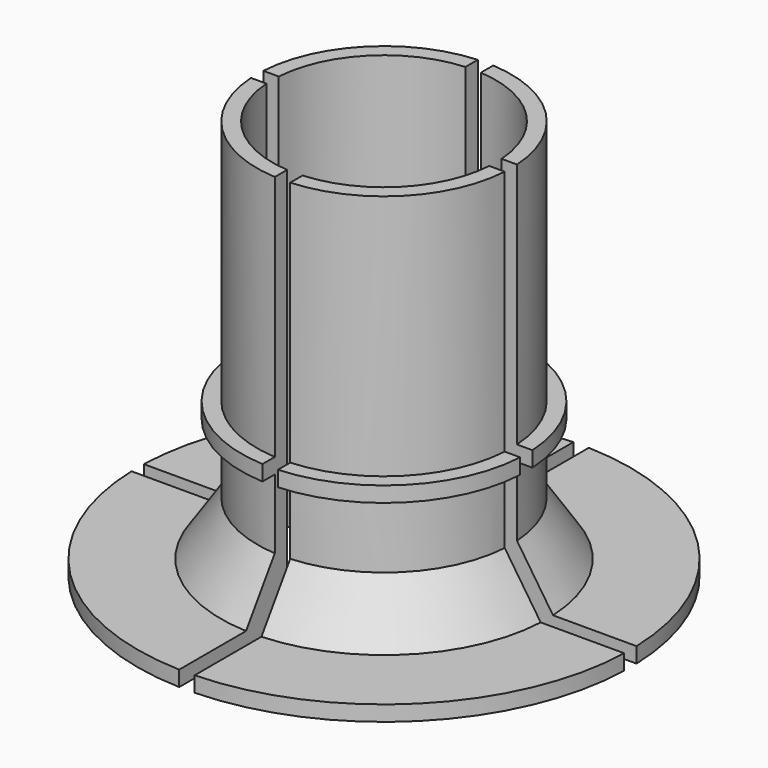
from build123d import *

# Parameters (mm, degrees)
EXTRUDE008_DEPTH = 26
EXTRUDE009_DEPTH = 1
EXTRUDE011_DEPTH = 1
BOX003_W         = 18
BOX003_H         = 17
BOX003_DEPTH     = 26
ARRAY_COUNT      = 4


with BuildPart() as extrude008:
    # Sketch010 → Extrude008 (new body)
    with BuildSketch(Plane.XY.offset(10)):
        with BuildLine():
            ThreePointArc((7.25, 0), (5.126524, 5.126524), (0, 7.25))
            Line((0, 8.25), (0, 7.25))
            ThreePointArc((8.25, 0), (5.833631, 5.833631), (0, 8.25))
            Line((7.25, 0), (8.25, 0))
        make_face()
    extrude(amount=EXTRUDE008_DEPTH)


with BuildPart() as extrude009:
    # Sketch011 → Extrude009 (new body)
    with BuildSketch(Plane.XY.offset(10)):
        with BuildLine():
            ThreePointArc((7.25, 0), (5.126524, 5.126524), (0, 7.25))
            Line((0, 16), (0, 7.25))
            ThreePointArc((16, 0), (11.313708, 11.313708), (0, 16))
            Line((7.25, 0), (16, 0))
        make_face()
    extrude(amount=EXTRUDE009_DEPTH)


with BuildPart() as extrude011:
    # Sketch013 → Extrude011 (new body)
    with BuildSketch(Plane.XY.offset(10)):
        with BuildLine():
            ThreePointArc((7.25, 0), (5.126524, 5.126524), (0, 7.25))
            Line((0, 9.25), (0, 7.25))
            ThreePointArc((9.25, 0), (6.540738, 6.540738), (0, 9.25))
            Line((9.25, 0), (7.25, 0))
        make_face()
    extrude(amount=EXTRUDE011_DEPTH)


with BuildPart() as extrude011_1:
    # Extrude011 placement: moved
    add(extrude011.part.moved(Location((0, 0, 9))))


with BuildPart() as fusion014:
    # Sweep: sweep along a path in Sketch014
    with BuildLine(Plane.XY) as sweep_path:
        ThreePointArc((7.25, 0), (5.126524, 5.126524), (0, 7.25))
    # Sketch012 → Sweep (sweep)
    with BuildSketch(Plane.XZ):
        Polygon((7.25, 10), (7.25, 16), (11.25, 10), align=None)
    sweep(path=sweep_path.line)

    # Fusion014: union Extrude008, Extrude009, Extrude011
    add(extrude008.part)
    add(extrude009.part)
    add(extrude011_1.part)


with BuildPart() as obj1:
    # Box003 → Box003 (new body)
    with BuildSketch(Plane(origin=(0.5, 0.5, 10), x_dir=(1, 0, 0), z_dir=(0, 0, 1))):
        with Locations((9, 8.5)):
            Rectangle(BOX003_W, BOX003_H)
    extrude(amount=BOX003_DEPTH)

    # Common: intersect Fusion014
    add(fusion014.part, mode=Mode.INTERSECT)


with BuildPart() as array_copy1:
    # Array: instance of obj1
    add(obj1.part.rotate(Axis((0, 0, 0), (0, 0, 1)), 1 * 360 / ARRAY_COUNT))


with BuildPart() as array_copy2:
    # Array: instance of obj1
    add(obj1.part.rotate(Axis((0, 0, 0), (0, 0, 1)), 2 * 360 / ARRAY_COUNT))


with BuildPart() as array_copy3:
    # Array: instance of obj1
    add(obj1.part.rotate(Axis((0, 0, 0), (0, 0, 1)), 3 * 360 / ARRAY_COUNT))


solid = Compound([obj1.part, array_copy1.part, array_copy2.part, array_copy3.part])
